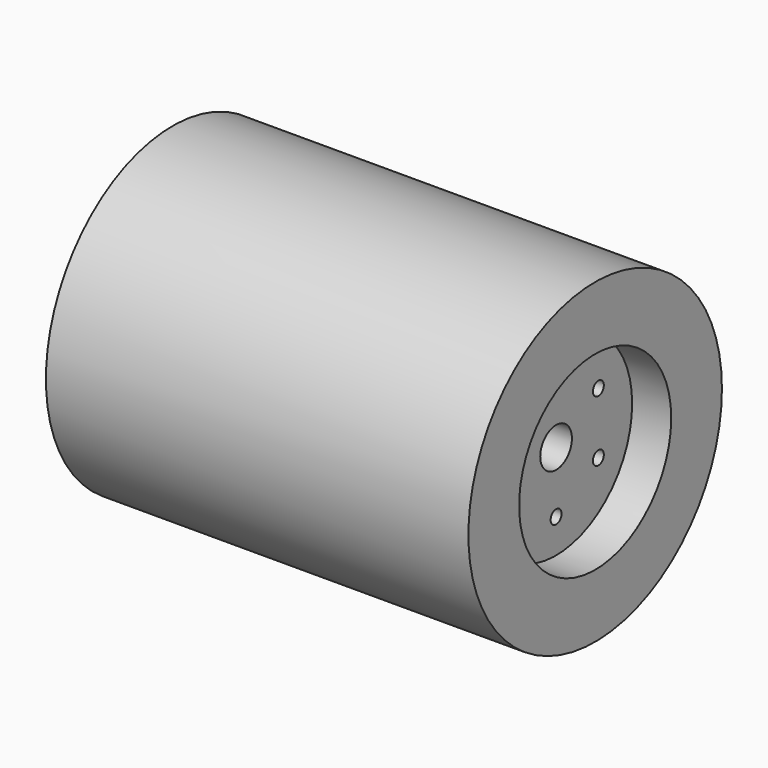
from build123d import *

# Parameters (mm, degrees)
F0_R     = 38.1
F1_DEPTH = 50.8
F2_R     = 22.86
F3_DEPTH = 9.398
F4_R     = 22.86
F5_DEPTH = 9.398
F6_R     = 4.7625
F7_DEPTH = 101.601
F8_R     = 1.6383
F9_DEPTH = 92.203


with BuildPart() as f1:
    # F0 (on Right) → F1 (new body, symmetric)
    with BuildSketch(Plane.YZ):
        Circle(F0_R)
    extrude(amount=F1_DEPTH, both=True)

    # F2 (on face) → F3 (cut)
    with BuildSketch(Plane(origin=(-50.8, 0, 0), x_dir=(0, -1, 0), z_dir=(-1, 0, 0))):
        Circle(F2_R)
    extrude(amount=-F3_DEPTH, mode=Mode.SUBTRACT)

    # F4 (on face) → F5 (cut)
    with BuildSketch(Plane.YZ.offset(50.8)):
        Circle(F4_R)
    extrude(amount=-F5_DEPTH, mode=Mode.SUBTRACT)

    # F6 (on face) → F7 (cut, through all)
    with BuildSketch(Plane(origin=(-50.8, 0, 0), x_dir=(0, -1, 0), z_dir=(-1, 0, 0))):
        Circle(F6_R)
    extrude(amount=-F7_DEPTH, mode=Mode.SUBTRACT)

    # F8 (on face) → F9 (cut, through all)
    with BuildSketch(Plane(origin=(-41.402, 0, 0), x_dir=(0, -1, 0), z_dir=(-1, 0, 0))):
        with Locations((0, 14.6812)):
            Circle(F8_R)
        with Locations((12.714292, 7.3406)):
            Circle(F8_R)
        with Locations((12.714292, -7.3406)):
            Circle(F8_R)
        with Locations((0, -14.6812)):
            Circle(F8_R)
        with Locations((-12.714292, -7.3406)):
            Circle(F8_R)
        with Locations((-12.714292, 7.3406)):
            Circle(F8_R)
    extrude(amount=-F9_DEPTH, mode=Mode.SUBTRACT)


solid = f1.part
